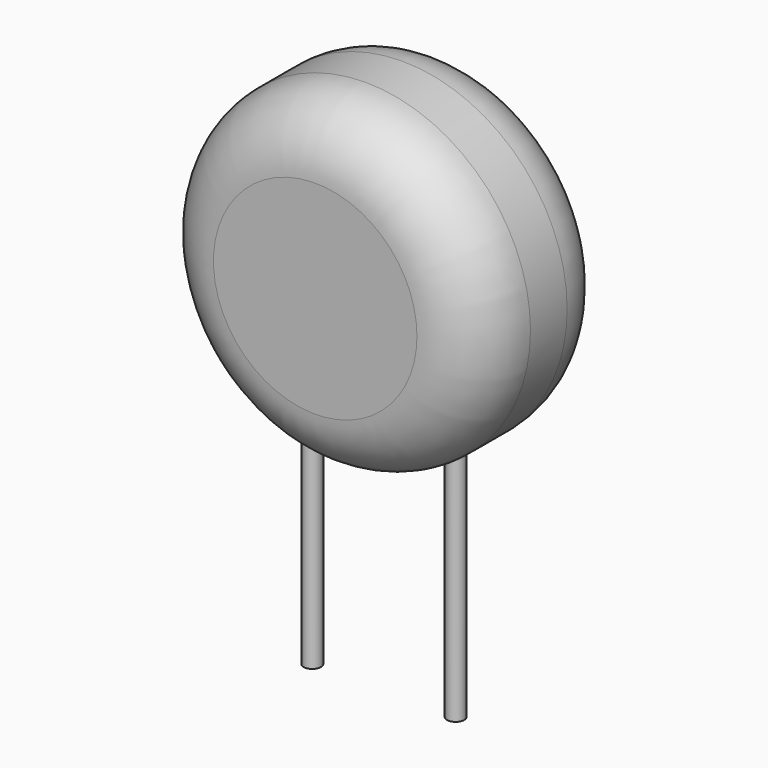
from build123d import *

# Parameters (mm, degrees)
CYLINDER002_R       = 0.3
CYLINDER002_DEPTH   = 10
CYLINDER001_R       = 0.3
CYLINDER001_DEPTH   = 10
CYLINDER_R          = 5.75
CYLINDER_DEPTH      = 6
CYLINDER_ROLL_ANGLE = 90
FILLET_R            = 2.2


with BuildPart() as pin002:
    # Cylinder002 → Cylinder002 (new body)
    with BuildSketch(Plane(origin=(2.5, 0, -3), x_dir=(1, 0, 0), z_dir=(0, 0, 1))):
        Circle(CYLINDER002_R)
    extrude(amount=CYLINDER002_DEPTH)


with BuildPart() as pin1:
    # Cylinder001 → Cylinder001 (new body)
    with BuildSketch(Plane(origin=(-2.5, 0, -3), x_dir=(1, 0, 0), z_dir=(0, 0, 1))):
        Circle(CYLINDER001_R)
    extrude(amount=CYLINDER001_DEPTH)


with BuildPart() as obj1:
    # Cylinder → Cylinder (new body)
    with BuildSketch(Plane.XY):
        Circle(CYLINDER_R)
    extrude(amount=CYLINDER_DEPTH)


with BuildPart() as obj1_1:
    # Cylinder roll: moved
    add(obj1.part.rotate(Axis((0, 0, 0), (1, 0, 0)), CYLINDER_ROLL_ANGLE))


with BuildPart() as obj1_2:
    # Cylinder placement: moved
    add(obj1_1.part.moved(Location((0, 3, 10.25))))

    # Fillet
    fillet_edges = [obj1_2.edges().sort_by_distance(p)[0] for p in [
        (-5.75, -3, 10.25),
        (-5.75, 3, 10.25),
    ]]
    fillet(fillet_edges, radius=FILLET_R)

    # Fusion: union pin002, pin1
    add(pin002.part)
    add(pin1.part)


solid = obj1_2.part
